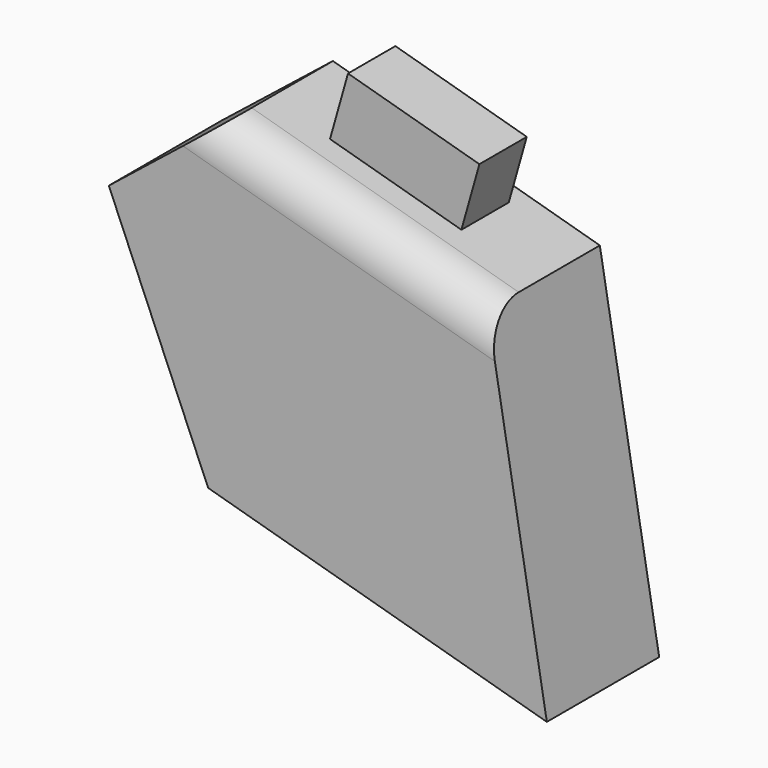
from build123d import *

# Parameters (mm, degrees)
F1_DEPTH = 18.288
F2_W     = 17.783007
F2_H     = 7.712702
F3_DEPTH = 8.6106
F4_R     = 5.08


with BuildPart() as f1:
    # F0 (on Front) → F1 (new body)
    with BuildSketch(Plane.XZ):
        Polygon((-13.85931, 24.089288), (-28.41359, 12.499769), (-15.476452, -17.956408), (28.639189, -30.43874), (20.909246, 14.251674), align=None)
    extrude(amount=F1_DEPTH)

    # F2 (on face) → F3 (join)
    with BuildSketch(Plane(origin=(5.283426, 0, 18.672932), x_dir=(0.962224, 0, -0.272257), z_dir=(0.272257, 0, 0.962224))):
        with Locations((-2.849124, -6.417316)):
            Rectangle(F2_W, F2_H)
    extrude(amount=F3_DEPTH)

    # F4
    f4_edges = [f1.edges().sort_by_distance(p)[0] for p in [
        (3.524968, -18.288, 19.170481),
    ]]
    fillet(f4_edges, radius=F4_R)


solid = f1.part
